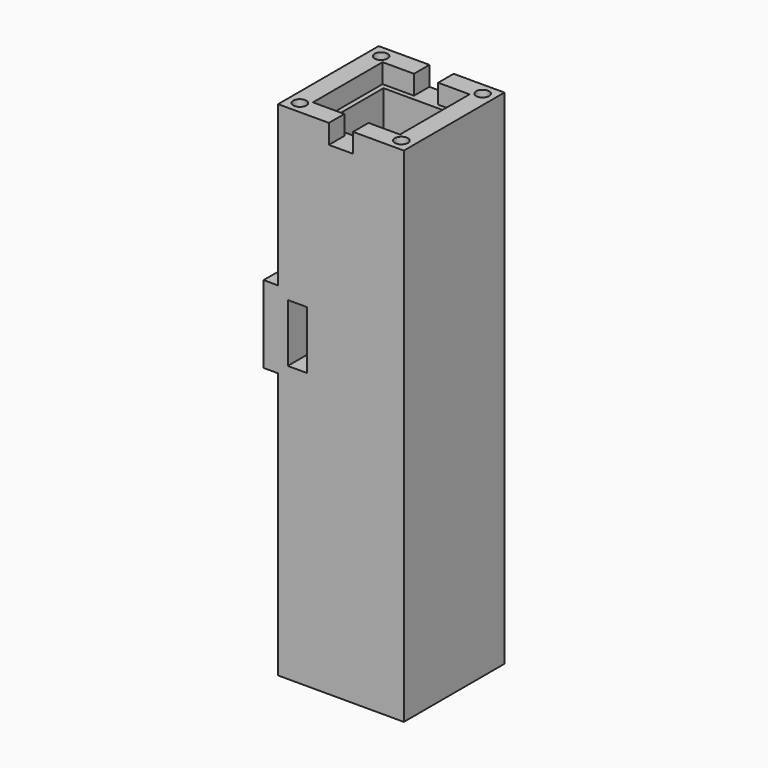
from build123d import *

# Parameters (mm, degrees)
F0_W      = 26
F0_H      = 26
F0_W_2    = 16
F0_H_2    = 16
F1_DEPTH  = 2
F2_DEPTH  = 100
F3_W      = 26
F3_H      = 26
F3_W_2    = 18
F3_H_2    = 18
F4_DEPTH  = 4
F5_W      = 5
F5_H      = 4
F6_DEPTH  = 4
F7_D      = 2.7
F7_DEPTH  = 4
F7_TIP    = 0.8111618357
F9_W      = 3
F9_H      = 16
F10_DEPTH = 26
F11_W     = 4
F11_H     = 12
F12_DEPTH = 20


with BuildPart() as f1:
    # F0 (on Top) → F1 (new body)
    with BuildSketch(Plane.XY):
        Rectangle(F0_W, F0_H)
        Rectangle(F0_W_2, F0_H_2, mode=Mode.SUBTRACT)
        Rectangle(F0_W, F0_H)
        Rectangle(F0_W_2, F0_H_2, mode=Mode.SUBTRACT)
        Rectangle(F0_W_2, F0_H_2)
    extrude(amount=F1_DEPTH)

    # F0 (on Top) → F2 (join)
    with BuildSketch(Plane.XY):
        Rectangle(F0_W, F0_H)
        Rectangle(F0_W_2, F0_H_2, mode=Mode.SUBTRACT)
        Rectangle(F0_W, F0_H)
        Rectangle(F0_W_2, F0_H_2, mode=Mode.SUBTRACT)
    extrude(amount=F2_DEPTH)

    # F3 (on face) → F4 (join)
    with BuildSketch(Plane.XY.offset(100)):
        Rectangle(F3_W, F3_H)
        Rectangle(F3_W_2, F3_H_2, mode=Mode.SUBTRACT)
    extrude(amount=F4_DEPTH)

    # F5 (on face) → F6 (cut, through all)
    with BuildSketch(Plane.XY.offset(104)):
        with Locations((0, -11)):
            Rectangle(F5_W, F5_H)
        with Locations((0, 11)):
            Rectangle(F5_W, F5_H)
    extrude(amount=-F6_DEPTH, mode=Mode.SUBTRACT)

    # F7
    with Locations(Plane.XY.offset(104)):
        with Locations((-10.5, 10.5), (10.5, 10.5), (-10.5, -10.5), (10.5, -10.5)):
            Hole(F7_D / 2, depth=F7_DEPTH)
            with Locations((0, 0, -(F7_DEPTH + F7_TIP / 2))):  # 118° drill point
                Cone(0, F7_D / 2, F7_TIP, mode=Mode.SUBTRACT)

    # F9 (on face) → F10 (join)
    with BuildSketch(Plane.XZ.offset(13)):
        with Locations((-14.5, 63)):
            Rectangle(F9_W, F9_H)
    extrude(amount=-F10_DEPTH)

    # F11 (on face) → F12 (cut)
    with BuildSketch(Plane.XZ.offset(13)):
        with Locations((-9, 63)):
            Rectangle(F11_W, F11_H)
    extrude(amount=-F12_DEPTH, mode=Mode.SUBTRACT)


solid = f1.part
